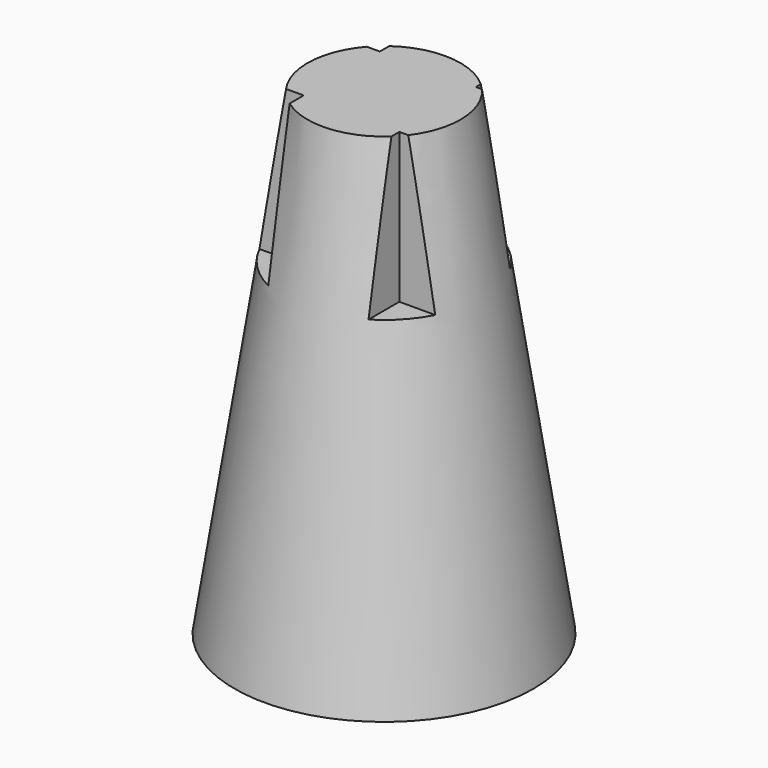
from build123d import *

# Parameters (mm, degrees)
F3_W     = 2.124586
F3_H     = 2.646484
F3_W_2   = 2.326301
F3_H_2   = 2.416364
F3_W_3   = 3.771314
F3_H_3   = 3.010656
F3_W_4   = 3.903168
F3_H_4   = 2.436567
F4_DEPTH = 7.62


with BuildPart() as f1:
    # F0 (on Front) → F1 (revolve)
    with BuildSketch(Plane.XZ):
        Polygon((0, 24.31952), (0, 0), (7.62, 0), (3.901527, 24.31952), align=None)
    revolve(axis=Axis((0, 0, 12.15976), (0, 0, 1)))

    # F3 (on offset) → F4 (cut)
    with BuildSketch(Plane.XY.offset(24.31952)):
        with Locations((3.723198, -3.671215)):
            Rectangle(F3_W, F3_H)
        with Locations((3.787343, 3.782073)):
            Rectangle(F3_W_2, F3_H_2)
        with Locations((-4.159726, -3.779338)):
            Rectangle(F3_W_3, F3_H_3)
        with Locations((-4.225653, 3.792174)):
            Rectangle(F3_W_4, F3_H_4)
    extrude(amount=-F4_DEPTH, mode=Mode.SUBTRACT)


solid = f1.part
